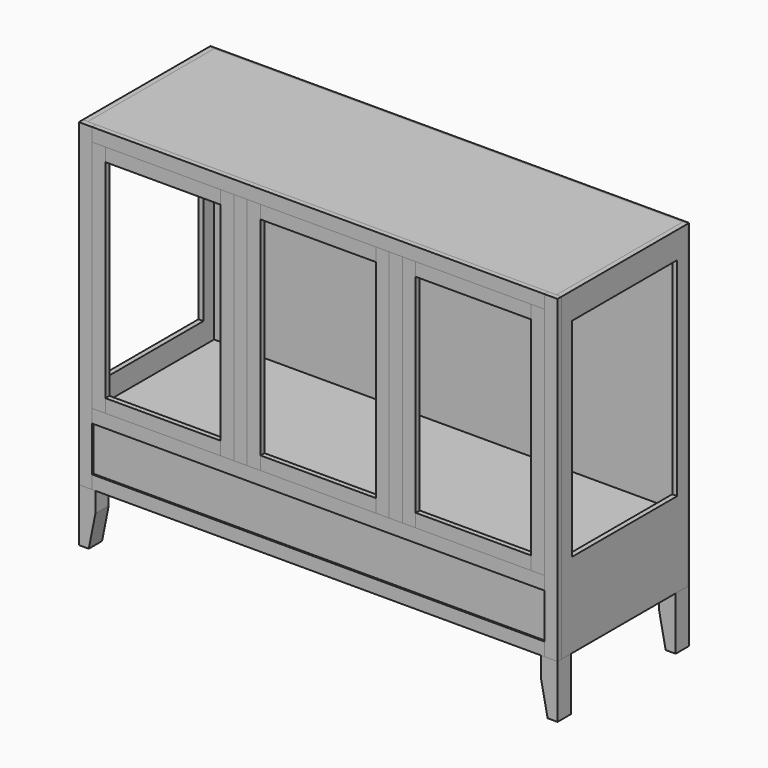
from build123d import *

# Parameters (mm, degrees)
F0_W      = 609.6
F0_H      = 1219.2
F1_DEPTH  = 19.05
F2_W      = 501.65
F2_H      = 793.75
F3_DEPTH  = 19.051
F6_W      = 1790.7
F6_H      = 19.05
F7_DEPTH  = 609.6
F8_W      = 1790.7
F8_H      = 19.05
F9_DEPTH  = 609.6
F10_W     = 1790.7
F10_H     = 19.05
F11_DEPTH = 609.6
F12_W     = 50.8
F12_H     = 1219.2
F13_DEPTH = 19.05
F15_W     = 1727.2
F15_H     = 50.8
F16_DEPTH = 19.05
F17_W     = 1727.2
F17_H     = 50.8
F18_DEPTH = 19.05
F19_W     = 1727.2
F19_H     = 50.8
F20_DEPTH = 19.05
F23_W     = 50.8
F23_H     = 895.35
F24_DEPTH = 19.05
F22_W     = 1727.2
F22_H     = 171.45
F26_DEPTH = 6.35
F27_W     = 50.8
F27_H     = 895.35
F28_DEPTH = 19.05
F29_W     = 50.8
F29_H     = 895.35
F30_DEPTH = 19.05
F31_W     = 440.182
F31_H     = 50.8
F32_DEPTH = 19.05
F33_W     = 440.182
F33_H     = 50.8
F34_DEPTH = 19.05
F36_W     = 50.8
F36_H     = 895.35
F37_DEPTH = 19.05
F38_W     = 50.8
F38_H     = 895.35
F39_DEPTH = 19.05
F40_W     = 440.436
F40_H     = 50.8
F41_DEPTH = 19.05
F42_W     = 440.436
F42_H     = 50.8
F43_DEPTH = 19.05
F44_W     = 1828.8
F44_H     = 1219.2
F45_DEPTH = 6.35
F47_DEPTH = 63.5


with BuildPart() as f1:
    # F0 (on Right) → F1 (new body)
    with BuildSketch(Plane.YZ):
        with Locations((274.3411302805, 518.5848358816)):
            Rectangle(F0_W, F0_H)
    extrude(amount=F1_DEPTH)

    # F2 (on face) → F3 (cut, through all)
    with BuildSketch(Plane.YZ.offset(19.05)):
        with Locations((271.1661302805, 629.7098358816)):
            Rectangle(F2_W, F2_H)
    extrude(amount=-F3_DEPTH, mode=Mode.SUBTRACT)


with BuildPart() as f5_1:
    # F5: instance of F1
    add(f1.part.mirror(Plane(origin=(-895.35, 278.0051626517, 390.3437028911), x_dir=(0, 1, 0), z_dir=(1, 0, 0))))


with BuildPart() as f7:
    # F6 (on face) → F7 (new body)
    with BuildSketch(Plane.XZ.offset(30.4588697195)):
        with Locations((-895.35, 1118.6598358816)):
            Rectangle(F6_W, F6_H)
    extrude(amount=-F7_DEPTH)


with BuildPart() as f9:
    # F8 (on face) → F9 (new body)
    with BuildSketch(Plane.XZ.offset(30.4588697195)):
        with Locations((-895.35, -81.4901641184)):
            Rectangle(F8_W, F8_H)
    extrude(amount=-F9_DEPTH)


with BuildPart() as f11:
    # F10 (on face) → F11 (new body)
    with BuildSketch(Plane.XZ.offset(30.4588697195)):
        with Locations((-895.35, 140.7598358816)):
            Rectangle(F10_W, F10_H)
    extrude(amount=-F11_DEPTH)


with BuildPart() as f13:
    # F12 (on face) → F13 (new body)
    with BuildSketch(Plane.XZ.offset(30.4588697195)):
        with Locations((-6.35, 518.5848358816)):
            Rectangle(F12_W, F12_H)
    extrude(amount=F13_DEPTH)


with BuildPart() as f14_1:
    # F14: instance of F13
    add(f13.part.mirror(Plane(origin=(-895.35, 278.0051626517, 390.3437028911), x_dir=(0, 1, 0), z_dir=(1, 0, 0))))


with BuildPart() as f16:
    # F15 (on face) → F16 (new body)
    with BuildSketch(Plane.XZ.offset(30.4588697195)):
        with Locations((-895.35, 1102.7848358816)):
            Rectangle(F15_W, F15_H)
    extrude(amount=F16_DEPTH)


with BuildPart() as f18:
    # F17 (on face) → F18 (new body)
    with BuildSketch(Plane.XZ.offset(30.4588697195)):
        with Locations((-895.35, 156.6348358816)):
            Rectangle(F17_W, F17_H)
    extrude(amount=F18_DEPTH)


with BuildPart() as f20:
    # F19 (on face) → F20 (new body)
    with BuildSketch(Plane.XZ.offset(30.4588697195)):
        with Locations((-895.35, -65.6151641184)):
            Rectangle(F19_W, F19_H)
    extrude(amount=F20_DEPTH)


with BuildPart() as f24:
    # F23 (on face) → F24 (new body)
    with BuildSketch(Plane.XZ.offset(49.5088697195)):
        with Locations((-598.932, 629.7098358816)):
            Rectangle(F23_W, F23_H)
    extrude(amount=-F24_DEPTH)


with BuildPart() as f25_1:
    # F25: instance of F24
    add(f24.part.mirror(Plane(origin=(-895.35, 278.0051626517, 390.3437028911), x_dir=(0, 1, 0), z_dir=(1, 0, 0))))


with BuildPart() as f26:
    # F22 (on offset) → F26 (new body)
    with BuildSketch(Plane.XZ.offset(43.1588697195)):
        with Locations((-895.35, 45.5098358816)):
            Rectangle(F22_W, F22_H)
    extrude(amount=-F26_DEPTH)


with BuildPart() as f28:
    # F27 (on face) → F28 (new body)
    with BuildSketch(Plane.XZ.offset(49.5088697195)):
        with Locations((-57.15, 629.7098358816)):
            Rectangle(F27_W, F27_H)
    extrude(amount=-F28_DEPTH)


with BuildPart() as f30:
    # F29 (on face) → F30 (new body)
    with BuildSketch(Plane.XZ.offset(49.5088697195)):
        with Locations((-548.132, 629.7098358816)):
            Rectangle(F29_W, F29_H)
    extrude(amount=-F30_DEPTH)


with BuildPart() as f32:
    # F31 (on face) → F32 (new body)
    with BuildSketch(Plane.XZ.offset(49.5088697195)):
        with Locations((-302.641, 1051.9848358816)):
            Rectangle(F31_W, F31_H)
    extrude(amount=-F32_DEPTH)


with BuildPart() as f34:
    # F33 (on face) → F34 (new body)
    with BuildSketch(Plane.XZ.offset(49.5088697195)):
        with Locations((-302.641, 207.4348358816)):
            Rectangle(F33_W, F33_H)
    extrude(amount=-F34_DEPTH)


with BuildPart() as f35_1:
    # F35: instance of F30
    add(f30.part.mirror(Plane(origin=(-895.35, 278.0051626517, 390.3437028911), x_dir=(0, 1, 0), z_dir=(1, 0, 0))))


with BuildPart() as f35_2:
    # F35: instance of F32
    add(f32.part.mirror(Plane(origin=(-895.35, 278.0051626517, 390.3437028911), x_dir=(0, 1, 0), z_dir=(1, 0, 0))))


with BuildPart() as f35_3:
    # F35: instance of F28
    add(f28.part.mirror(Plane(origin=(-895.35, 278.0051626517, 390.3437028911), x_dir=(0, 1, 0), z_dir=(1, 0, 0))))


with BuildPart() as f35_4:
    # F35: instance of F34
    add(f34.part.mirror(Plane(origin=(-895.35, 278.0051626517, 390.3437028911), x_dir=(0, 1, 0), z_dir=(1, 0, 0))))


with BuildPart() as f37:
    # F36 (on face) → F37 (new body)
    with BuildSketch(Plane.XZ.offset(49.5088697195)):
        with Locations((-649.732, 629.7098358816)):
            Rectangle(F36_W, F36_H)
    extrude(amount=-F37_DEPTH)


with BuildPart() as f39:
    # F38 (on face) → F39 (new body)
    with BuildSketch(Plane.XZ.offset(49.5088697195)):
        with Locations((-1140.968, 629.7098358816)):
            Rectangle(F38_W, F38_H)
    extrude(amount=-F39_DEPTH)


with BuildPart() as f41:
    # F40 (on face) → F41 (new body)
    with BuildSketch(Plane.XZ.offset(49.5088697195)):
        with Locations((-895.35, 1051.9848358816)):
            Rectangle(F40_W, F40_H)
    extrude(amount=-F41_DEPTH)


with BuildPart() as f43:
    # F42 (on face) → F43 (new body)
    with BuildSketch(Plane.XZ.offset(49.5088697195)):
        with Locations((-895.35, 207.4348358816)):
            Rectangle(F42_W, F42_H)
    extrude(amount=-F43_DEPTH)


with BuildPart() as f45:
    # F44 (on face) → F45 (new body)
    with BuildSketch(Plane(origin=(0, 579.1411302805, 0), x_dir=(-1, 0, 0), z_dir=(0, 1, 0))):
        with Locations((895.35, 518.5848358816)):
            Rectangle(F44_W, F44_H)
    extrude(amount=-F45_DEPTH)


with BuildPart() as f47:
    # F46 (on face) → F47 (new body)
    with BuildSketch(Plane.XZ.offset(49.5088697195)):
        Polygon((19.05, -294.2151641184), (19.05, -91.0151641184), (-44.45, -91.0151641184), (-44.45, -167.2151641184), (-19.05, -294.2151641184), align=None)
    extrude(amount=-F47_DEPTH)


with BuildPart() as f48_1:
    # F48: instance of F47
    add(f47.part.mirror(Plane(origin=(-895.35, 278.0051626517, 390.3437028911), x_dir=(0, 1, 0), z_dir=(1, 0, 0))))


with BuildPart() as f50_1:
    # F50: instance of F48_1
    add(f48_1.part.mirror(Plane(origin=(-895.35, 264.1811302805, 1118.6598358816), x_dir=(1, 0, 0), z_dir=(0, 1, 0))))


with BuildPart() as f50_2:
    # F50: instance of F47
    add(f47.part.mirror(Plane(origin=(-895.35, 264.1811302805, 1118.6598358816), x_dir=(1, 0, 0), z_dir=(0, 1, 0))))


solid = Compound([f1.part, f5_1.part, f7.part, f9.part, f11.part, f13.part, f14_1.part, f16.part, f18.part, f20.part, f24.part, f25_1.part, f26.part, f28.part, f30.part, f32.part, f34.part, f35_1.part, f35_2.part, f35_3.part, f35_4.part, f37.part, f39.part, f41.part, f43.part, f45.part, f47.part, f48_1.part, f50_1.part, f50_2.part])
